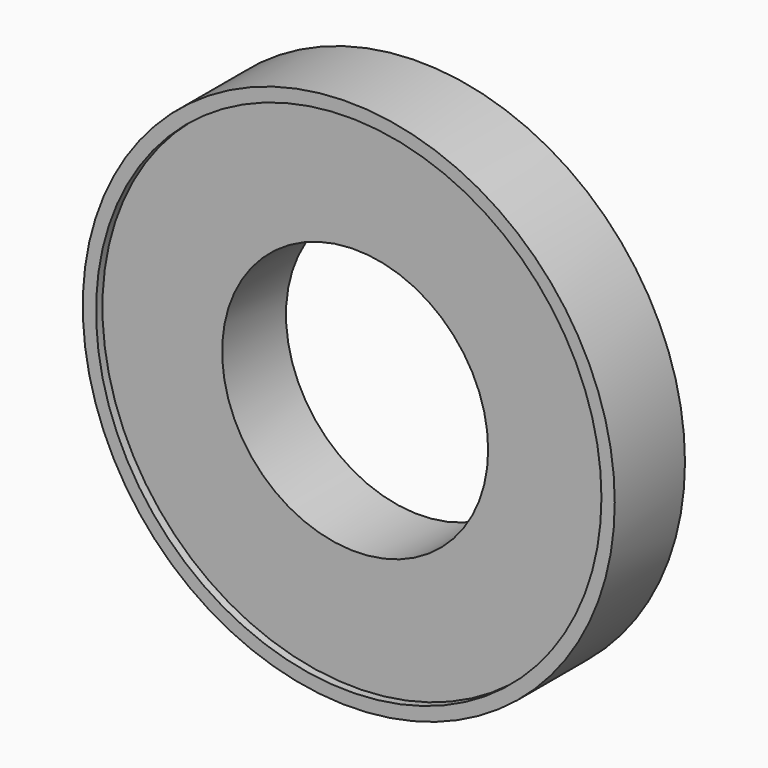
from build123d import *

# Parameters (mm, degrees)
F0_R     = 10
F0_R_2   = 9.5
F1_DEPTH = 3.3
F0_R_3   = 5
F2_DEPTH = 3
F3_DEPTH = 25


with BuildPart() as f1:
    # F0 (on Front) → F1 (new body)
    with BuildSketch(Plane.XZ):
        Circle(F0_R)
        Circle(F0_R_2, mode=Mode.SUBTRACT)
    extrude(amount=F1_DEPTH)

    # F0 (on Front) → F2 (join)
    with BuildSketch(Plane.XZ):
        Circle(F0_R_2)
        Circle(F0_R_3, mode=Mode.SUBTRACT)
        Circle(F0_R_3)
    extrude(amount=F2_DEPTH)

    # F0 (on Front) → F3 (cut)
    with BuildSketch(Plane.XZ):
        Circle(F0_R_3)
    extrude(amount=F3_DEPTH, mode=Mode.SUBTRACT)


solid = f1.part
